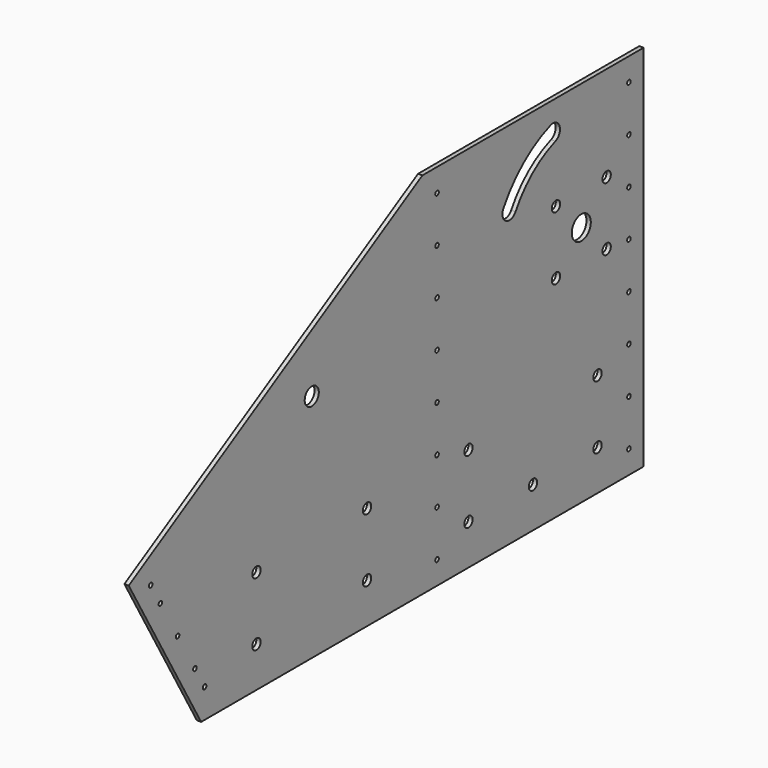
from build123d import *

# Parameters (mm, degrees)
F1_DEPTH = 4.7752
F2_R     = 13.09751
F2_R_2   = 5.75437
F3_DEPTH = 25.4
F5_DEPTH = 25.4
F6_R     = 2.4638
F7_DEPTH = 25.4
F8_R     = 5.75437
F8_R_2   = 9.7282
F9_DEPTH = 25.4


with BuildPart() as f1:
    # F0 (on Right) → F1 (new body)
    with BuildSketch(Plane.YZ):
        Polygon((-304.8, 0), (0, 0), (304.8, 0), (304.8, 406.4), (0, 406.4), (-404.576362, 172.817728), align=None)
    extrude(amount=-F1_DEPTH)

    # F2 (on face) → F3 (cut)
    with BuildSketch(Plane.YZ):
        with Locations((218.948, 266.7)):
            Circle(F2_R)
        with Locations((184.023, 301.625)):
            Circle(F2_R_2)
        with Locations((253.873, 301.625)):
            Circle(F2_R_2)
        with Locations((253.873, 231.775)):
            Circle(F2_R_2)
        with Locations((184.023, 231.775)):
            Circle(F2_R_2)
        with Locations((63.5, 114.3)):
            Circle(F2_R_2)
        with Locations((241.3, 114.3)):
            Circle(F2_R_2)
        with Locations((241.3, 44.45)):
            Circle(F2_R_2)
        with Locations((63.5, 44.45)):
            Circle(F2_R_2)
        with Locations((152.4, 44.45)):
            Circle(F2_R_2)
    extrude(amount=-F3_DEPTH, mode=Mode.SUBTRACT)

    # F4 (on face) → F5 (cut)
    with BuildSketch(Plane.YZ):
        with BuildLine():
            ThreePointArc((176.529595, 383.243611), (139.227475, 361.707222), (111.540827, 328.71156))
            ThreePointArc((111.540827, 328.71156), (115.099736, 315.429531), (128.381765, 318.98844))
            ThreePointArc((128.381765, 318.98844), (151.727277, 346.810538), (183.180601, 364.970122))
            ThreePointArc((183.180601, 364.970122), (188.991842, 377.432369), (176.529595, 383.243611))
        make_face()
    extrude(amount=-F5_DEPTH, mode=Mode.SUBTRACT)

    # F6 (on face) → F7 (cut)
    with BuildSketch(Plane.YZ):
        with Locations((284.607, 25.4)):
            Circle(F6_R)
        with Locations((284.607, 76.2)):
            Circle(F6_R)
        with Locations((284.607, 127)):
            Circle(F6_R)
        with Locations((284.607, 381)):
            Circle(F6_R)
        with Locations((284.607, 177.8)):
            Circle(F6_R)
        with Locations((284.607, 228.6)):
            Circle(F6_R)
        with Locations((284.607, 279.4)):
            Circle(F6_R)
        with Locations((284.607, 330.2)):
            Circle(F6_R)
        with Locations((20.193, 25.4)):
            Circle(F6_R)
        with Locations((20.193, 330.2)):
            Circle(F6_R)
        with Locations((20.193, 76.2)):
            Circle(F6_R)
        with Locations((20.193, 127)):
            Circle(F6_R)
        with Locations((20.193, 177.8)):
            Circle(F6_R)
        with Locations((20.193, 228.6)):
            Circle(F6_R)
        with Locations((20.193, 279.4)):
            Circle(F6_R)
        with Locations((20.193, 381)):
            Circle(F6_R)
        with Locations((-374.388711, 160.917183)):
            Circle(F6_R)
        with Locations((-361.01303, 137.749824)):
            Circle(F6_R)
        with Locations((-313.38803, 55.260904)):
            Circle(F6_R)
        with Locations((-300.012349, 32.093545)):
            Circle(F6_R)
        with Locations((-337.20053, 96.505364)):
            Circle(F6_R)
    extrude(amount=-F7_DEPTH, mode=Mode.SUBTRACT)

    # F8 (on face) → F9 (cut)
    with BuildSketch(Plane.YZ):
        with Locations((-76.2, 114.3)):
            Circle(F8_R)
        with Locations((-76.2, 44.45)):
            Circle(F8_R)
        with Locations((-228.6, 114.3)):
            Circle(F8_R)
        with Locations((-228.6, 44.45)):
            Circle(F8_R)
        with Locations((-152.4, 254)):
            Circle(F8_R_2)
    extrude(amount=-F9_DEPTH, mode=Mode.SUBTRACT)


solid = f1.part
